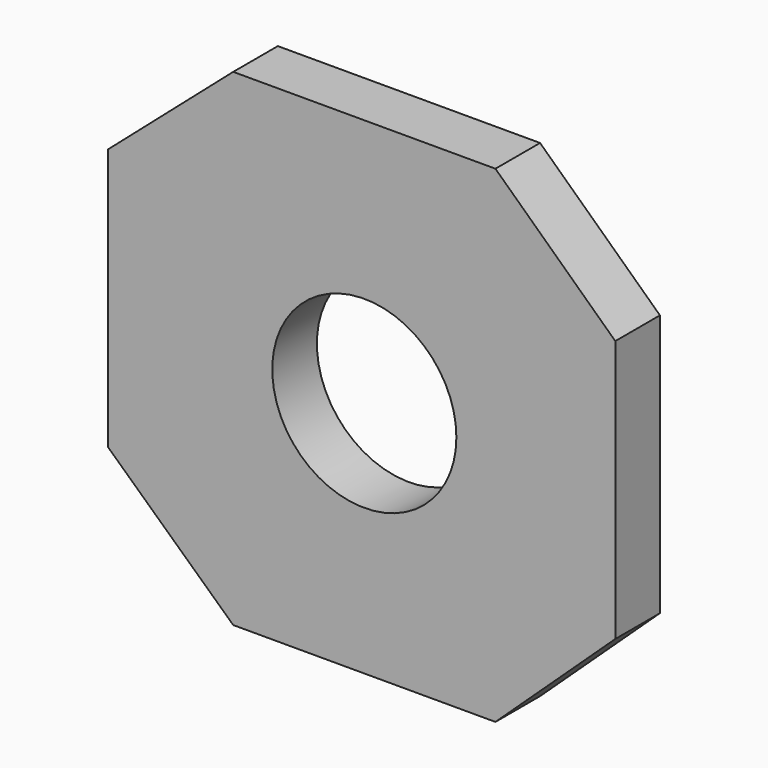
from build123d import *

# Parameters (mm, degrees)
F0_R     = 4.191
F1_DEPTH = 2.54


with BuildPart() as f1:
    # F0 (on Front) → F1 (new body)
    with BuildSketch(Plane.XZ):
        Polygon((-11.664975, 17.213106), (-11.664975, 11.244106), (-11.664975, 5.275106), (-5.969, 0), (0, 0), (5.969, 0), (11.424948, 5.0987), (11.424948, 11.0677), (11.424948, 17.0367), (5.969, 22.170171), (0, 22.170171), (-5.969, 22.170171), align=None)
        with Locations((0, 10.826342)):
            Circle(F0_R, mode=Mode.SUBTRACT)
    extrude(amount=F1_DEPTH)


solid = f1.part
